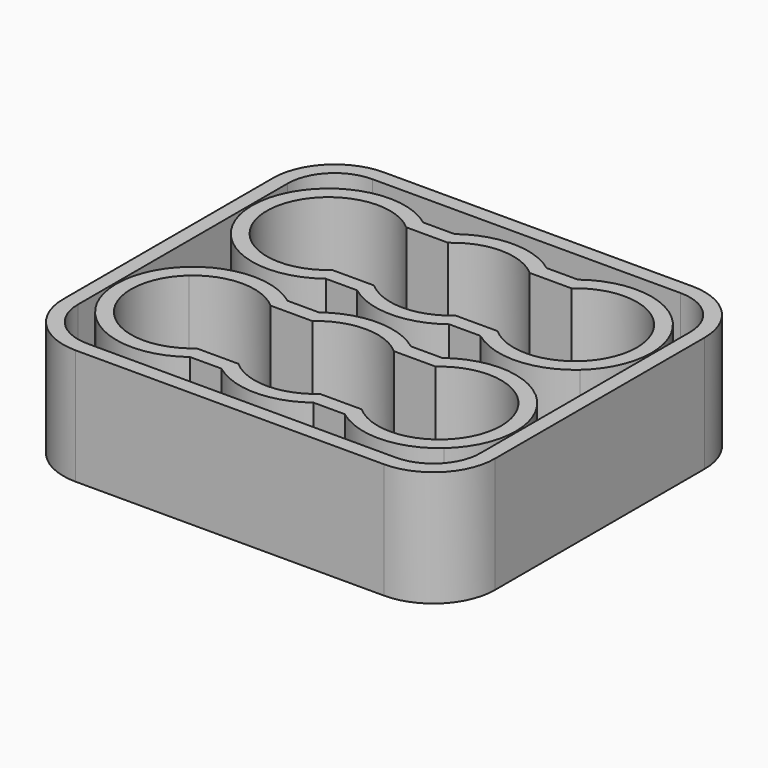
from build123d import *

# Parameters (mm, degrees)
F1_DEPTH = 7.5
F2_R     = 4
F3_T     = -0.95


with BuildPart() as f1:
    # F0 (on Top) → F1 (new body)
    with BuildSketch(Plane.XY):
        Polygon((-11.2561800848, -12.5999993347), (14, -12.5999993347), (14, 2.4000006653), (14, 8.4000006653), (14, 12.4000006653), (-14, 12.4000006653), (-14, 5.4000006653), (-14, -12.5999993347), align=None)
        with BuildLine():
            ThreePointArc((2.6457513111, -8.5999993347), (0, -9.5999993347), (-2.6457513111, -8.5999993347))
            Line((-2.6457513111, -8.5999993347), (-5.3542486889, -8.5999993347))
            ThreePointArc((-5.3542486889, -8.5999993347), (-8, -9.5999993347), (-10.6457513111, -8.5999993347))
            ThreePointArc((-10.6457513111, -8.5999993347), (-12, -5.5999993347), (-10.6457513111, -2.5999993347))
            ThreePointArc((-10.6457513111, -2.5999993347), (-8, -1.5999993347), (-5.3542486889, -2.5999993347))
            Line((-5.3542486889, -2.5999993347), (-2.6457513111, -2.5999993347))
            ThreePointArc((-2.6457513111, -2.5999993347), (0, -1.5999993347), (2.6457513111, -2.5999993347))
            Line((2.6457513111, -2.5999993347), (5.3542486889, -2.5999993347))
            ThreePointArc((5.3542486889, -2.5999993347), (8, -1.5999993347), (10.6457513111, -2.5999993347))
            ThreePointArc((10.6457513111, -2.5999993347), (12, -5.5999993347), (10.6457513111, -8.5999993347))
            ThreePointArc((10.6457513111, -8.5999993347), (8, -9.5999993347), (5.3542486889, -8.5999993347))
            Line((5.3542486889, -8.5999993347), (2.6457513111, -8.5999993347))
        make_face(mode=Mode.SUBTRACT)
        with BuildLine():
            Line((-2.6457513111, 2.4000006653), (-5.3542486889, 2.4000006653))
            ThreePointArc((-5.3542486889, 2.4000006653), (-12, 5.4000006653), (-5.3542486889, 8.4000006653))
            Line((-5.3542486889, 8.4000006653), (-2.6457513111, 8.4000006653))
            ThreePointArc((-2.6457513111, 8.4000006653), (0, 9.4000006653), (2.6457513111, 8.4000006653))
            Line((2.6457513111, 8.4000006653), (5.3542486889, 8.4000006653))
            ThreePointArc((5.3542486889, 8.4000006653), (8, 9.4000006653), (10.6457513111, 8.4000006653))
            ThreePointArc((10.6457513111, 8.4000006653), (12, 5.4000006653), (10.6457513111, 2.4000006653))
            ThreePointArc((10.6457513111, 2.4000006653), (8, 1.4000006653), (5.3542486889, 2.4000006653))
            Line((5.3542486889, 2.4000006653), (2.6457513111, 2.4000006653))
            ThreePointArc((2.6457513111, 2.4000006653), (0, 1.4000006653), (-2.6457513111, 2.4000006653))
        make_face(mode=Mode.SUBTRACT)
    extrude(amount=F1_DEPTH)

    # F2
    f2_edges = [f1.edges().sort_by_distance(p)[0] for p in [
        (-14, 12.400001, 3.75),
        (14, -12.599999, 3.75),
        (-14, -12.599999, 3.75),
        (14, 12.400001, 3.75),
    ]]
    fillet(f2_edges, radius=F2_R)

    # F3
    f3_openings = [f1.faces().sort_by_distance(p)[0] for p in [
        (0, -0.099999, 7.5),
    ]]
    offset(amount=F3_T, openings=f3_openings)


solid = f1.part
